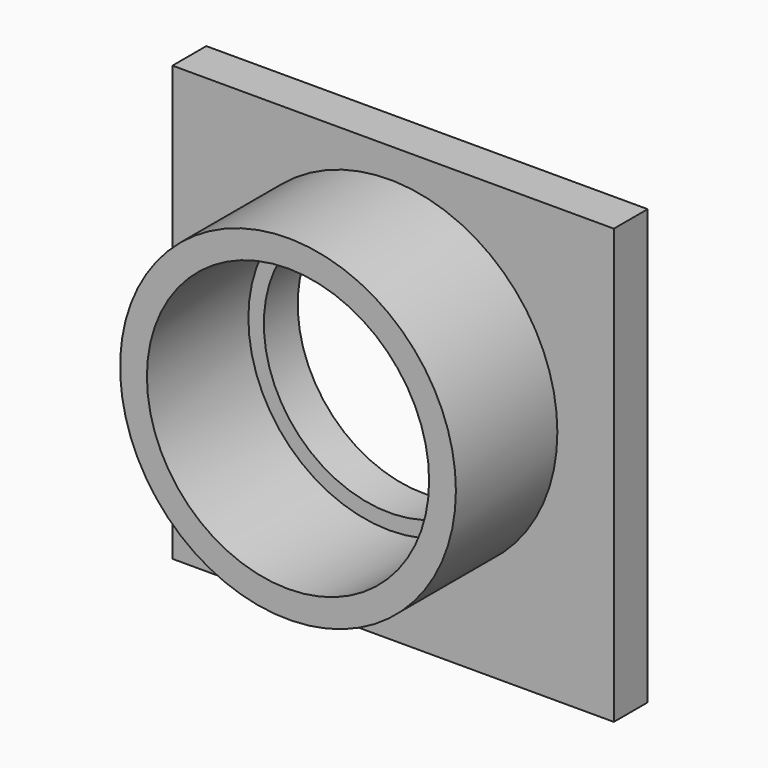
from build123d import *

# Parameters (mm, degrees)
F0_W     = 265.182197
F0_H     = 260.887756
F0_R     = 75.468554
F1_DEPTH = 25.4
F2_R     = 100.868554
F2_R_2   = 84.770232
F3_DEPTH = 76.2


with BuildPart() as f1:
    # F0 (on Front) → F1 (new body)
    with BuildSketch(Plane.XZ):
        with Locations((2.209305, -11.791192)):
            Rectangle(F0_W, F0_H)
        Circle(F0_R, mode=Mode.SUBTRACT)
    extrude(amount=F1_DEPTH)

    # F2 (on face) → F3 (join)
    with BuildSketch(Plane.XZ.offset(25.4)):
        Circle(F2_R)
        Circle(F2_R_2, mode=Mode.SUBTRACT)
    extrude(amount=F3_DEPTH)


solid = f1.part
